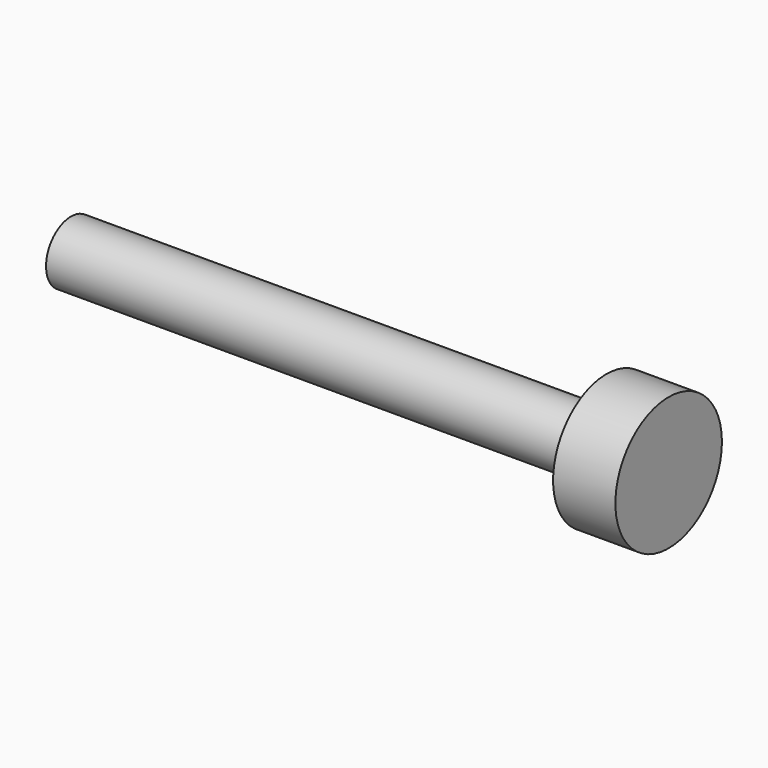
from build123d import *

# Parameters (mm, degrees)
F0_R     = 1.5875
F1_DEPTH = 38.1
F2_R     = 3.3957745988
F3_DEPTH = 3.175
F4_DEPTH = 10.795


with BuildPart() as f1:
    # F0 (on Right) → F1 (new body)
    with BuildSketch(Plane.YZ):
        with Locations((-14.1914412379, 11.465549469)):
            Circle(F0_R)
    extrude(amount=F1_DEPTH)

    # F2 (on face) → F3 (join)
    with BuildSketch(Plane.YZ.offset(38.1)):
        with Locations((-14.1914412379, 11.465549469)):
            Circle(F2_R)
    extrude(amount=F3_DEPTH)

    # F4 (cut): a face of the model
    f4_faces = [f1.faces().sort_by_distance(p)[0] for p in [
        (0, -14.1914412379, 11.465549469),
    ]]
    extrude(f4_faces, amount=-F4_DEPTH, mode=Mode.SUBTRACT)


solid = f1.part
